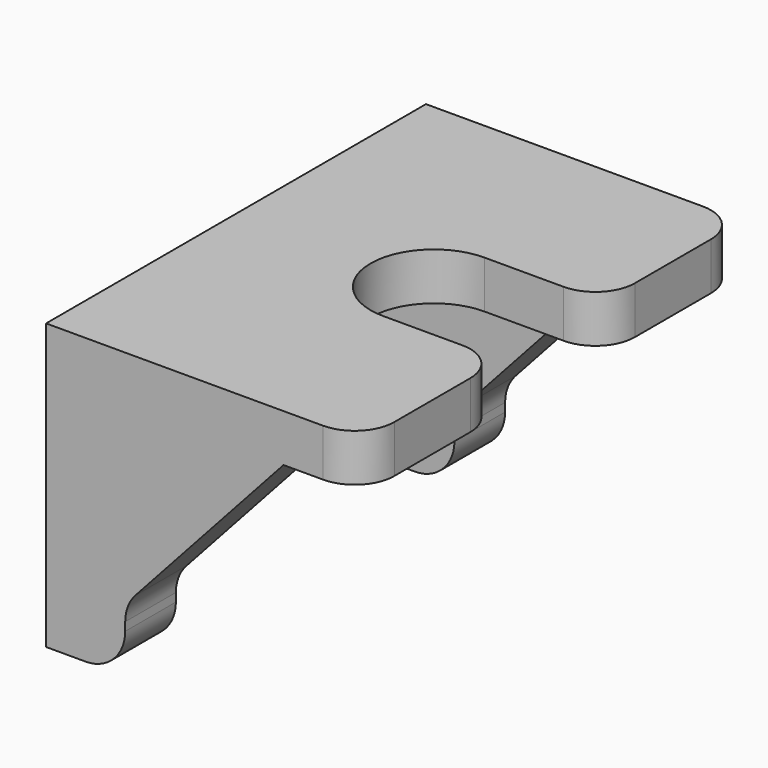
from build123d import *

# Parameters (mm, degrees)
PAD069_DEPTH           = 1.2
PAD070_DEPTH           = 1.6
LINEARPATTERN005_COUNT = 2
LINEARPATTERN005_PITCH = 10.4
FILLET023_R            = 1
FILLET024_R            = 1
FILLET025_R            = 1


with BuildPart() as part:
    # Sketch099 → Pad069 (new body)
    with BuildSketch(Plane.XY):
        with BuildLine():
            Line((-4, 6), (4, 6))
            Line((4, 6), (4, 1.6))
            Line((1, 1.6), (4, 1.6))
            ThreePointArc((1, 1.6), (-0.6, 0), (1, -1.6))
            Line((4, -1.6), (1, -1.6))
            Line((4, -1.6), (4, -6))
            Line((4, -6), (-4, -6))
            Line((-4, -6), (-4, 6))
        make_face()
    extrude(amount=PAD069_DEPTH)

    # Sketch100 (on DatumPlane) → Pad070 (join)
    with BuildSketch(Plane.XZ.offset(6)):
        Polygon((-4, 0), (-4, -6), (-2, -6), (-2, -4.4), (2, 0), align=None)
    pad070 = extrude(amount=-PAD070_DEPTH)

    # LinearPattern005: Pad070 ×2
    with Locations(*[(0, i * LINEARPATTERN005_PITCH, 0) for i in range(1, LINEARPATTERN005_COUNT)]):
        add(pad070)

    # Fillet023
    fillet023_edges = [part.edges().sort_by_distance(p)[0] for p in [
        (-2, -5.2, -6),
        (-2, 5.2, -6),
    ]]
    fillet(fillet023_edges, radius=FILLET023_R)

    # Fillet024
    fillet024_edges = [part.edges().sort_by_distance(p)[0] for p in [
        (-2, -5.2, -4.4),
        (-2, 5.2, -4.4),
    ]]
    fillet(fillet024_edges, radius=FILLET024_R)

    # Fillet025
    fillet025_edges = [part.edges().sort_by_distance(p)[0] for p in [
        (4, -6, 0.6),
        (4, -1.6, 0.6),
        (4, 1.6, 0.6),
        (4, 6, 0.6),
    ]]
    fillet(fillet025_edges, radius=FILLET025_R)


with BuildPart() as part_1:
    # Body020 placement: moved
    add(part.part.moved(Location((38.8, -29, 34.1))))


solid = part_1.part
